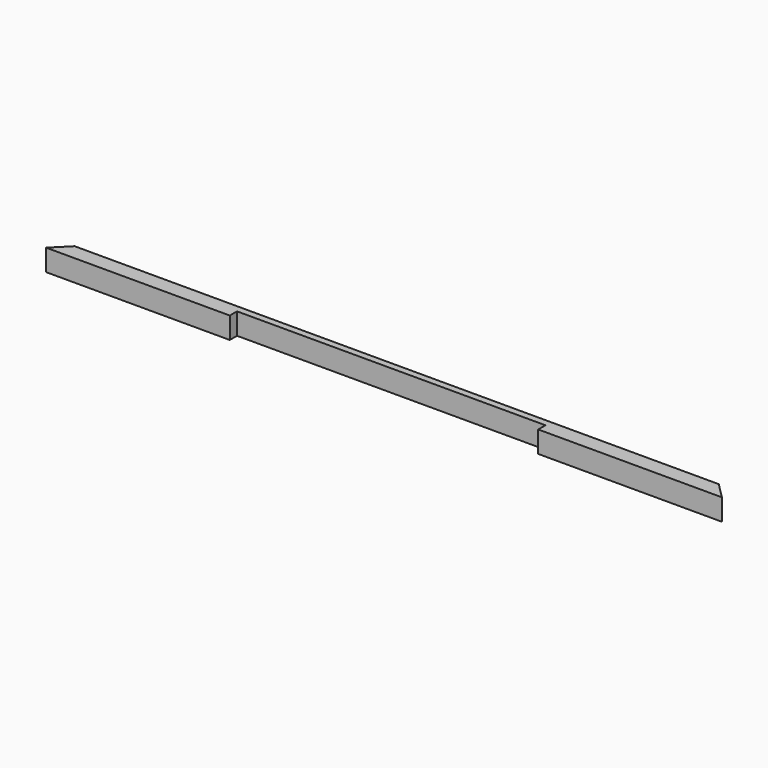
from build123d import *

# Parameters (mm, degrees)
F1_DEPTH = 30.1625
F2_W     = 431.8
F2_H     = 30.1625
F3_DEPTH = 12.7


with BuildPart() as f1:
    # F0 (on Top) → F1 (new body)
    with BuildSketch(Plane.XY):
        Polygon((22.225, 22.225), (0, 0), (946.15, 0), (923.925, 22.225), align=None)
    extrude(amount=F1_DEPTH)

    # F2 (on face) → F3 (cut)
    with BuildSketch(Plane.XZ):
        with Locations((473.075, 15.08125)):
            Rectangle(F2_W, F2_H)
    extrude(amount=-F3_DEPTH, mode=Mode.SUBTRACT)


solid = f1.part
